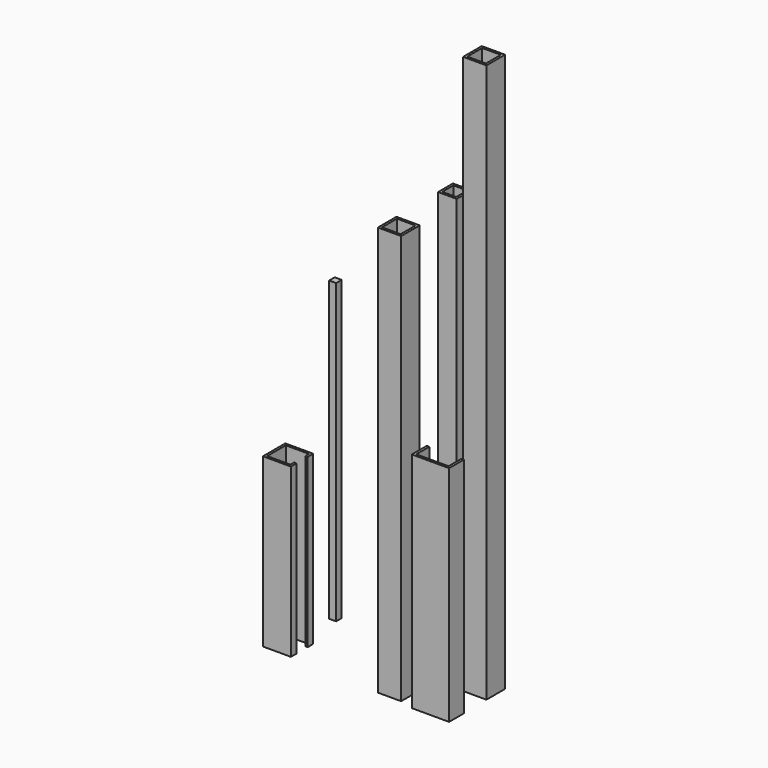
from build123d import *

# Parameters (mm, degrees)
F0_W     = 25.4
F0_H     = 25.4
F0_W_2   = 19.05
F0_H_2   = 19.05
F1_DEPTH = 558.8
F0_W_3   = 31.75
F0_H_3   = 31.75
F2_DEPTH = 558.8
F3_DEPTH = 762
F4_DEPTH = 228.6
F5_DEPTH = 304.8
F0_W_4   = 9.525
F0_H_4   = 9.525
F6_DEPTH = 406.4


with BuildPart() as f1:
    # F0 (on Top) → F1 (new body)
    with BuildSketch(Plane.XY):
        with Locations((200.770049, 66.072633)):
            Rectangle(F0_W, F0_H)
        with Locations((200.770049, 66.072633)):
            Rectangle(F0_W_2, F0_H_2, mode=Mode.SUBTRACT)
    extrude(amount=F1_DEPTH)


with BuildPart() as f2:
    # F0 (on Top) → F2 (new body)
    with BuildSketch(Plane.XY):
        with Locations((204.95672, -34.768391)):
            Rectangle(F0_W_3, F0_H_3)
        with Locations((204.95672, -34.768391)):
            Rectangle(F0_W, F0_H, mode=Mode.SUBTRACT)
    extrude(amount=F2_DEPTH)


with BuildPart() as f3:
    # F0 (on Top) → F3 (new body)
    with BuildSketch(Plane.XY):
        with Locations((273.721206, 24.787342)):
            Rectangle(F0_W_3, F0_H_3)
        with Locations((273.672812, 24.787342)):
            Rectangle(F0_W, F0_H, mode=Mode.SUBTRACT)
    extrude(amount=F3_DEPTH)


with BuildPart() as f4:
    # F0 (on Top) → F4 (new body)
    with BuildSketch(Plane.XY):
        Polygon((65.130284, -15.480487), (65.130284, -5.955487), (27.030284, -5.955487), (27.030284, -44.055487), (65.130284, -44.055487), (65.130284, -34.530487), (61.955284, -34.530487), (61.955284, -40.880487), (30.205284, -40.880487), (30.205284, -9.130487), (61.955284, -9.130487), (61.955284, -15.480487), align=None)
    extrude(amount=F4_DEPTH)


with BuildPart() as f5:
    # F0 (on Top) → F5 (new body)
    with BuildSketch(Plane.XY):
        Polygon((290.560265, -55.991273), (290.560265, -30.591273), (287.258265, -30.591273), (287.258265, -52.689273), (243.187115, -52.689273), (243.187115, -30.591273), (239.760265, -30.591273), (239.760265, -55.991273), align=None)
    extrude(amount=F5_DEPTH)


with BuildPart() as f6:
    # F0 (on Top) → F6 (new body)
    with BuildSketch(Plane.XY):
        with Locations((46.890649, 54.748937)):
            Rectangle(F0_W_4, F0_H_4)
    extrude(amount=F6_DEPTH)


solid = Compound([f1.part, f2.part, f3.part, f4.part, f5.part, f6.part])
